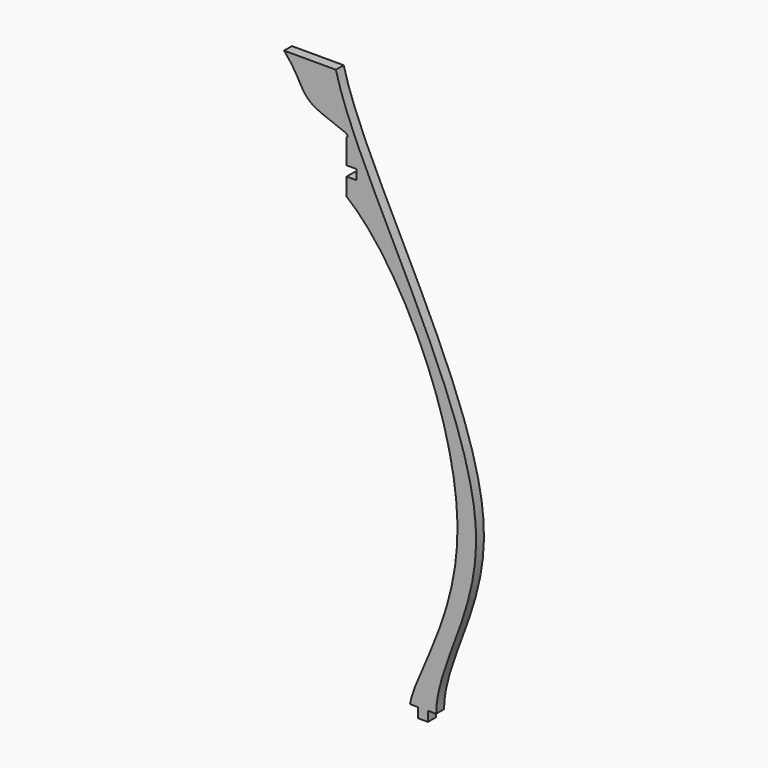
from build123d import *

# Parameters (mm, degrees)
F1_DEPTH = 3
F2_W     = 3
F2_H     = 3
F3_DEPTH = 3


with BuildPart() as f1:
    # F0 (on Front) → F1 (new body)
    with BuildSketch(Plane.XZ):
        with BuildLine():
            Line((37.7275831997, 51.2796007097), (21.8912921846, 51.2796007097))
            add(Edge.make_bspline(
                [(21.8912921846, 51.2796007097), (27.3185072373, 45.1657411064), (26.039388682, 38.8996476775), (43.0508547476, 35.2303709053), (41, 34.2057006066)],
                knots=[0, 0, 0, 0, 0.5437203888, 1, 1, 1, 1], degree=3))
            Line((41, 34.2057006066), (41, 26.6100899651))
            Line((41, 26.6100899651), (44, 26.6100899651))
            Line((44, 26.6100899651), (44, 23.6100899651))
            Line((44, 23.6100899651), (41, 23.6100899651))
            Line((41, 23.6100899651), (41, 18.211246145))
            add(Edge.make_bspline(
                [(41, 18.211246145), (57.3413741866, 5.2397402187), (89.9952397738, -63.9580892481), (61.936421338, -102.5987867584), (60.3752894402, -112.0587181645)],
                knots=[0.3091443125, 0.3091443125, 0.3091443125, 0.3091443125, 0.6762851886, 1, 1, 1, 1], degree=3))
            Line((60.3752894402, -112.0587181645), (68.3752894402, -112.0587181645))
            add(Edge.make_bspline(
                [(37.7275831997, 51.2796007097), (44.065497615, 25.2670443927), (101.6281908906, -57.2120908678), (68.5710443155, -96.9809014754), (68.3752894402, -112.0587181645)],
                knots=[0, 0, 0, 0, 0.5903877314, 1, 1, 1, 1], degree=3))
        make_face()
    extrude(amount=F1_DEPTH)

    # F2 (on Front) → F3 (join)
    with BuildSketch(Plane.XZ):
        with Locations((64.3752894402, -113.5587181645)):
            Rectangle(F2_W, F2_H)
    extrude(amount=F3_DEPTH)


solid = f1.part
